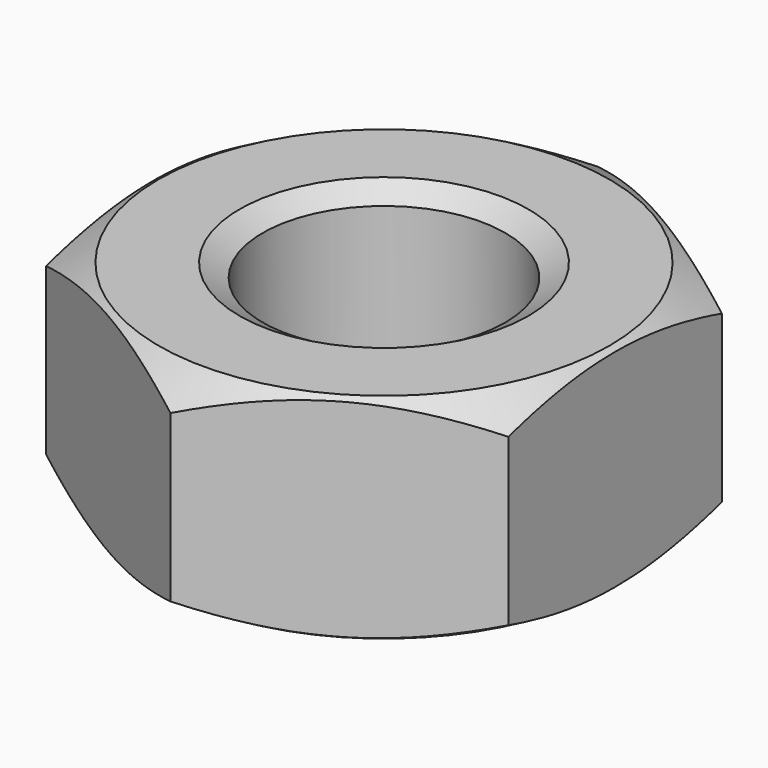
from build123d import *

# Parameters (mm, degrees)
SKETCH001_R  = 5
POCKET_DEPTH = 3.7


with BuildPart() as part:
    # Sketch → Revolution (revolve)
    with BuildSketch(Plane.XZ):
        Polygon((2.5, 0), (2.1, 0.23094), (2.1, 3.46906), (2.5, 3.7), (3.9, 3.7), (5, 3.064915), (5, 0.635085), (3.9, 0), align=None)
    revolve(axis=Axis((0, 0, 0), (0, 0, 1)))

    # Sketch001 → Pocket (cut)
    with BuildSketch(Plane(origin=(0, 0, 3.7), x_dir=(-1, 0, 0), z_dir=(0, 0, 1))):
        Circle(SKETCH001_R)
        Polygon((-4, 2.309401), (-4, -2.309401), (0, -4.618802), (4, -2.309401), (4, 2.309401), (0, 4.618802), align=None, mode=Mode.SUBTRACT)
    extrude(amount=-POCKET_DEPTH, mode=Mode.SUBTRACT)


solid = part.part
